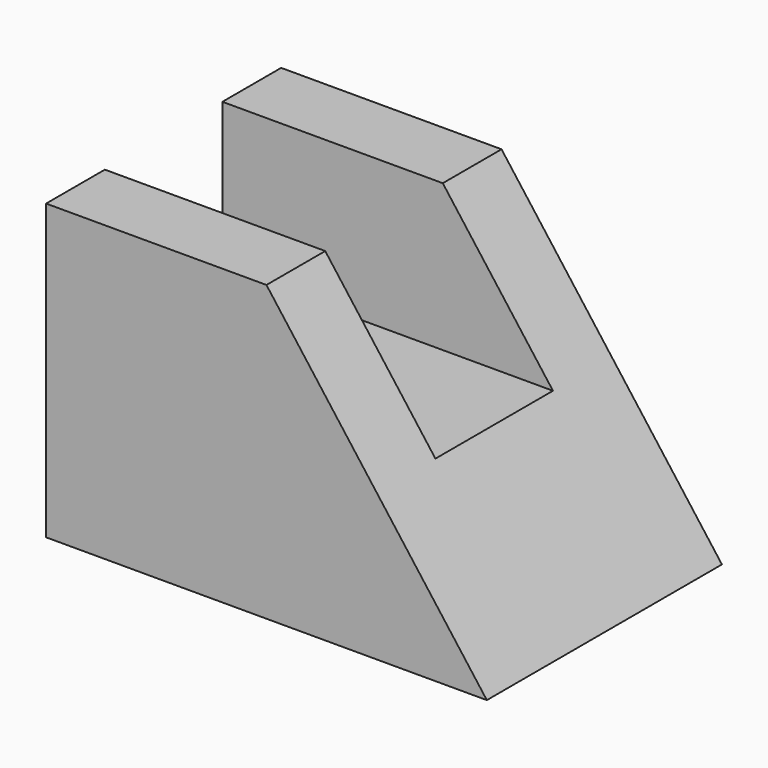
from build123d import *

# Parameters (mm, degrees)
F1_DEPTH = 12.7
F3_DEPTH = 6.35


with BuildPart() as f1:
    # F0 (on Front) → F1 (new body, symmetric)
    with BuildSketch(Plane.XZ):
        Polygon((0, 12.7), (0, 0), (38.1, 0), (28.575, 12.7), align=None)
        Polygon((0, 25.4), (0, 12.7), (28.575, 12.7), (19.05, 25.4), align=None)
    extrude(amount=F1_DEPTH, both=True)

    # F2 (on Front) → F3 (cut, symmetric)
    with BuildSketch(Plane.XZ):
        Polygon((0, 25.4), (0, 12.7), (28.575, 12.7), (19.05, 25.4), align=None)
    extrude(amount=F3_DEPTH, both=True, mode=Mode.SUBTRACT)


solid = f1.part
